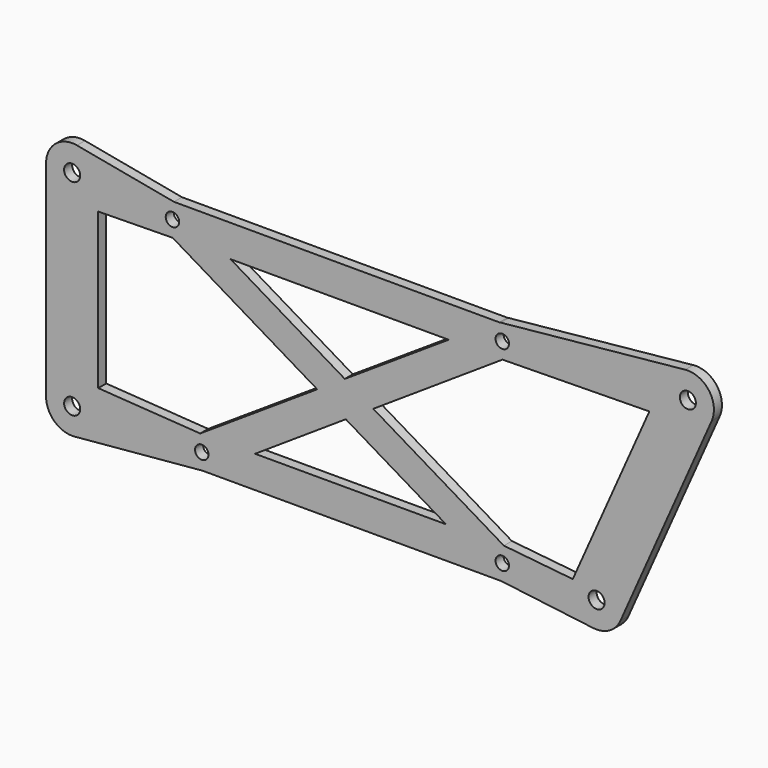
from build123d import *

# Parameters (mm, degrees)
F0_R     = 2
F0_R_2   = 1.675
F1_DEPTH = 2.5


with BuildPart() as f1:
    # F0 (on Front) → F1 (new body)
    with BuildSketch(Plane.XZ):
        with BuildLine():
            Line((25.372912, 27.487189), (1.196257, 32.013972))
            ThreePointArc((1.196257, 32.013972), (-4.151766, 30.626283), (-6.5, 25.625))
            Line((-6.5, 25.625), (-6.5, -25.625))
            ThreePointArc((-6.5, -25.625), (-4.384339, -30.423705), (0.585407, -32.098585))
            Line((0.585407, -32.098585), (32.500492, -29.2125))
            Line((32.500492, -29.2125), (106.981654, -29.2125))
            Line((106.981654, -29.2125), (129.945975, -32.075081))
            ThreePointArc((129.945975, -32.075081), (133.948679, -31.283485), (136.69097, -28.262211))
            Line((136.69097, -28.262211), (159.44097, 22.987789))
            ThreePointArc((159.44097, 22.987789), (158.765192, 29.436528), (152.85003, 32.092421))
            Line((152.85003, 32.092421), (106.830018, 27.467452))
            ThreePointArc((106.830018, 27.467452), (106.661418, 27.446883), (106.493842, 27.419175))
            Line((106.493842, 27.419175), (25.372912, 27.487189))
        make_face()
        with Locations((0, -25.625)):
            Circle(F0_R, mode=Mode.SUBTRACT)
        with Locations((32.32, -25.2125)):
            Circle(F0_R_2, mode=Mode.SUBTRACT)
        Polygon((31.913422, -21.233217), (6.5, -19.542957), (6.5, 19.219141), (25.057927, 19.487919), (61.098957, -2.048826), align=None, mode=Mode.SUBTRACT)
        Polygon((45.607536, -21.233217), (68.220376, -6.304314), (93.2034, -21.233217), align=None, mode=Mode.SUBTRACT)
        with Locations((107.23, -25.2125)):
            Circle(F0_R_2, mode=Mode.SUBTRACT)
        with Locations((130.75, -25.625)):
            Circle(F0_R, mode=Mode.SUBTRACT)
        Polygon((75.077593, -1.777209), (107.287927, 19.487919), (143.899482, 20.018173), (124.80903, -22.987789), (107.636578, -21.233217), align=None, mode=Mode.SUBTRACT)
        Polygon((67.971859, 2.468907), (39.491105, 19.487919), (93.863169, 19.487919), align=None, mode=Mode.SUBTRACT)
        with Locations((25, 23.4875)):
            Circle(F0_R_2, mode=Mode.SUBTRACT)
        with Locations((0, 25.625)):
            Circle(F0_R, mode=Mode.SUBTRACT)
        with Locations((107.23, 23.4875)):
            Circle(F0_R_2, mode=Mode.SUBTRACT)
        with Locations((153.5, 25.625)):
            Circle(F0_R, mode=Mode.SUBTRACT)
    extrude(amount=F1_DEPTH)


solid = f1.part
